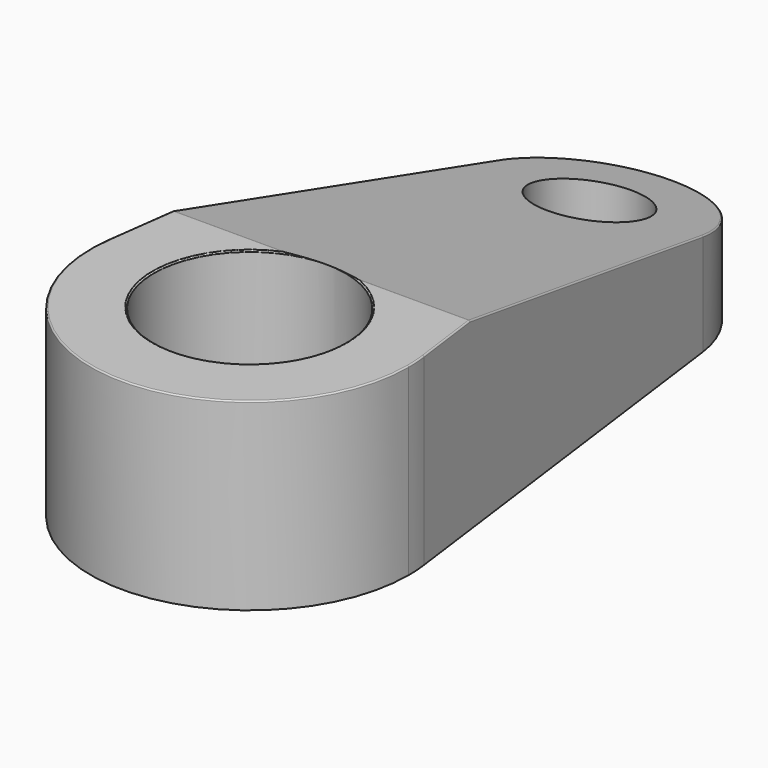
from build123d import *

# Parameters (mm, degrees)
F0_R          = 14.187969
F0_R_2        = 7.743586
F1_DEPTH      = 27.278503
F4_DEPTH      = 70.82668
F4_DEPTH_BACK = 25.4
F5_R          = 0.2032


with BuildPart() as f1:
    # F0 (on Top) → F1 (new body)
    with BuildSketch(Plane.XY):
        with BuildLine():
            ThreePointArc((-23.337792, 3.076938), (0, 23.539755), (23.337792, 3.076938))
            Line((23.337792, 3.076938), (15.189044, 64.883116))
            ThreePointArc((15.189044, 64.883116), (15.287592, 63.883982), (15.320488, 62.880538))
            ThreePointArc((15.320488, 62.880538), (-1.003444, 47.592947), (-15.189044, 64.883116))
            Line((-15.189044, 64.883116), (-23.337792, 3.076938))
        make_face()
        with BuildLine():
            ThreePointArc((-23.337792, 3.076938), (-1.54178, -23.48921), (23.539755, 0))
            ThreePointArc((23.539755, 0), (23.48921, 1.54178), (23.337792, 3.076938))
            ThreePointArc((23.337792, 3.076938), (0, 23.539755), (-23.337792, 3.076938))
        make_face()
        Circle(F0_R, mode=Mode.SUBTRACT)
        with BuildLine():
            ThreePointArc((15.320488, 62.880538), (15.287592, 63.883982), (15.189044, 64.883116))
            ThreePointArc((15.189044, 64.883116), (0, 78.201027), (-15.189044, 64.883116))
            ThreePointArc((-15.189044, 64.883116), (-1.003444, 47.592947), (15.320488, 62.880538))
        make_face()
        with Locations((0, 62.880538)):
            Circle(F0_R_2, mode=Mode.SUBTRACT)
    extrude(amount=F1_DEPTH)

    # F3 (on Right) → F4 (cut, two sides)
    with BuildSketch(Plane.YZ) as f4_sk:
        Polygon((98.717824, 27.551521), (12.098692, 27.551521), (98.717824, 7.182653), align=None)
    extrude(amount=F4_DEPTH, mode=Mode.SUBTRACT)
    extrude(f4_sk.sketch, amount=-F4_DEPTH_BACK, mode=Mode.SUBTRACT)

    # F5
    f5_edges = [f1.edges().sort_by_distance(p)[0] for p in [
        (-8.052412, -11.681487, 27.278503),
        (-1.54178, -23.48921, 27.278503),
        (18.592151, 39.071411, 21.208768),
        (-13.521451, 13.259705, 27.278503),
        (13.521451, 13.259705, 27.278503),
    ]]
    fillet(f5_edges, radius=F5_R)


solid = f1.part
